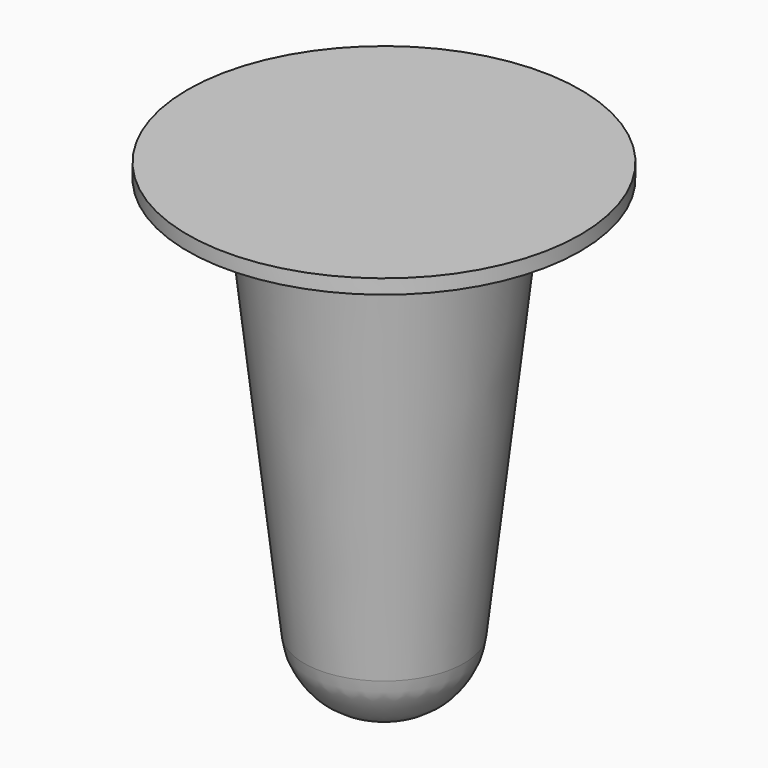
from build123d import *

# Parameters (mm, degrees)
F2_R     = 12.7
F3_R     = 34.533227
F4_DEPTH = 2.54


with BuildPart() as f1:
    # F0 (on Front) → F1 (revolve)
    with BuildSketch(Plane.XZ):
        with BuildLine():
            Line((-21.942784, 83.185), (-13.480181, 7.482272))
            ThreePointArc((-13.480181, 7.482272), (-7.247642, 2.826722), (0, 0))
            Line((0, 0), (0, 83.185))
            Line((0, 83.185), (-21.942784, 83.185))
        make_face()
    revolve(axis=Axis((0, 0, 41.5925), (0, 0, -1)))

    # F2
    f2_edges = [f1.edges().sort_by_distance(p)[0] for p in [
        (13.480181, 0, 7.482272),
    ]]
    fillet(f2_edges, radius=F2_R)

    # F3 (on face) → F4 (join)
    with BuildSketch(Plane.XY.offset(83.185)):
        Circle(F3_R)
    extrude(amount=F4_DEPTH)


solid = f1.part
